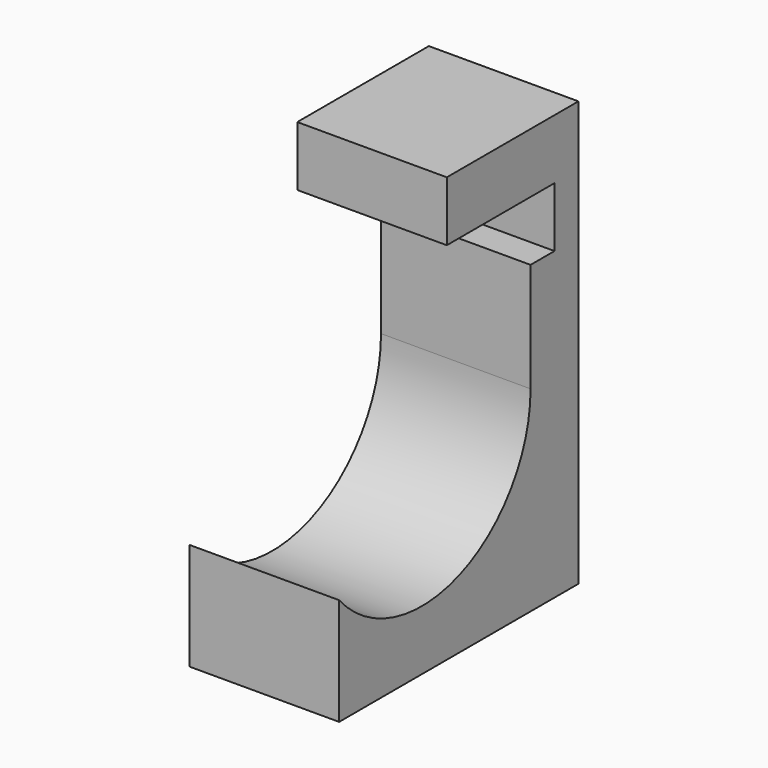
from build123d import *

# Parameters (mm, degrees)
F1_DEPTH = 12.7


with BuildPart() as f1:
    # F0 (on Right) → F1 (new body)
    with BuildSketch(Plane.YZ):
        with BuildLine():
            ThreePointArc((11.557, 0), (4.0181, -10.83601), (-8.763, -7.534858))
            Line((-8.763, -7.534858), (-8.763, -16.637))
            Line((-8.763, -16.637), (11.557, -16.637))
            Line((11.557, -16.637), (16.637, -16.637))
            Line((16.637, -16.637), (16.637, 19.431))
            Line((16.637, 19.431), (2.667, 19.431))
            Line((2.667, 19.431), (2.667, 14.351))
            Line((2.667, 14.351), (11.557, 14.351))
            Line((11.557, 14.351), (14.097, 14.351))
            Line((14.097, 14.351), (14.097, 9.271))
            Line((14.097, 9.271), (11.557, 9.271))
            Line((11.557, 9.271), (11.557, 0))
        make_face()
    extrude(amount=F1_DEPTH)


solid = f1.part
